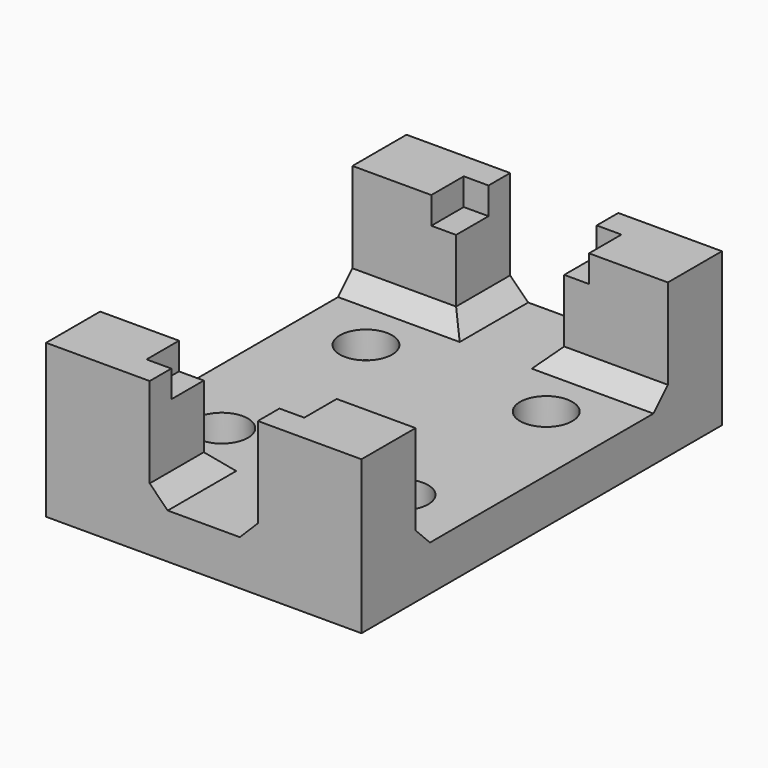
from build123d import *

# Parameters (mm, degrees)
SKETCH_W        = 35
SKETCH_H        = 50
PAD_DEPTH       = 5
SKETCH004_R     = 2.9
POCKET_DEPTH    = 3
SKETCH005_R     = 1.6
POCKET001_DEPTH = 5
SKETCH006_W     = 11.5
SKETCH006_H     = 7.5
PAD001_DEPTH    = 12
SKETCH007_W     = 17.5
SKETCH007_H     = 44
POCKET002_DEPTH = 3
CHAMFER_SIZE    = 2


with BuildPart() as part:
    # Sketch → Pad (new body)
    with BuildSketch(Plane.XY):
        with Locations((17.5, 25)):
            Rectangle(SKETCH_W, SKETCH_H)
    extrude(amount=PAD_DEPTH)

    # Sketch004 → Pocket (cut)
    with BuildSketch(Plane.XY.offset(5)):
        with Locations((7.5, 15)):
            Circle(SKETCH004_R)
        with Locations((7.5, 35)):
            Circle(SKETCH004_R)
        with Locations((27.5, 15)):
            Circle(SKETCH004_R)
        with Locations((27.5, 35)):
            Circle(SKETCH004_R)
    extrude(amount=-POCKET_DEPTH, mode=Mode.SUBTRACT)

    # Sketch005 → Pocket001 (cut)
    with BuildSketch(Plane.XY.offset(2)):
        with Locations((7.5, 15)):
            Circle(SKETCH005_R)
        with Locations((7.5, 35)):
            Circle(SKETCH005_R)
        with Locations((27.5, 15)):
            Circle(SKETCH005_R)
        with Locations((27.5, 35)):
            Circle(SKETCH005_R)
    extrude(amount=-POCKET001_DEPTH, mode=Mode.SUBTRACT)

    # Sketch006 → Pad001 (new body)
    with BuildSketch(Plane.XY.offset(5)):
        with Locations((5.75, 3.75)):
            Rectangle(SKETCH006_W, SKETCH006_H)
        with Locations((5.75, 46.25)):
            Rectangle(SKETCH006_W, SKETCH006_H)
        with Locations((29.25, 3.75)):
            Rectangle(SKETCH006_W, SKETCH006_H)
        with Locations((29.25, 46.25)):
            Rectangle(SKETCH006_W, SKETCH006_H)
    extrude(amount=PAD001_DEPTH)

    # Sketch007 → Pocket002 (cut)
    with BuildSketch(Plane.XY.offset(17)):
        with Locations((17.5, 25)):
            Rectangle(SKETCH007_W, SKETCH007_H)
    extrude(amount=-POCKET002_DEPTH, mode=Mode.SUBTRACT)

    # Chamfer
    chamfer_edges = [part.edges().sort_by_distance(p)[0] for p in [
        (5.75, 7.5, 5),
        (11.5, 3.75, 5),
        (29.25, 7.5, 5),
        (23.5, 3.75, 5),
        (5.75, 42.5, 5),
        (11.5, 46.25, 5),
        (29.25, 42.5, 5),
        (23.5, 46.25, 5),
    ]]
    chamfer(chamfer_edges, length=CHAMFER_SIZE)


solid = part.part
